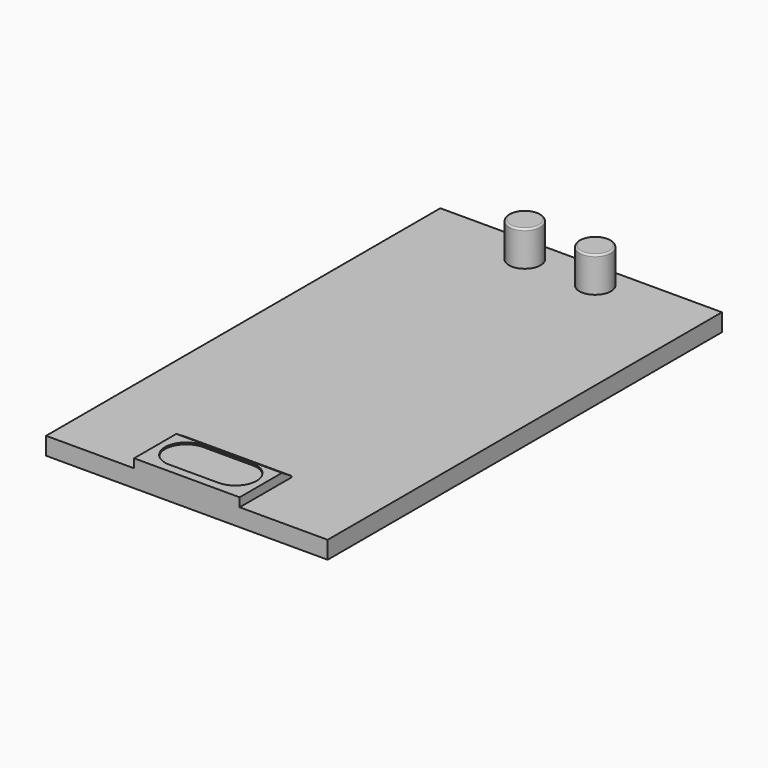
from build123d import *

# Parameters (mm, degrees)
F0_W     = 203.2
F0_H     = 355.6
F1_DEPTH = 12.7
F2_R     = 11.43
F3_DEPTH = 38.1
F4_W     = 76.2
F4_H     = 38.1
F5_DEPTH = 6.35
F7_DEPTH = 1.27
F9_DEPTH = 76.2
F10_R    = 1.27


with BuildPart() as f1:
    # F0 (on Top) → F1 (new body)
    with BuildSketch(Plane.XY):
        with Locations((101.6, 177.8)):
            Rectangle(F0_W, F0_H)
    extrude(amount=F1_DEPTH)

    # F2 (on face) → F3 (join)
    with BuildSketch(Plane.XY):
        with Locations((76.2, 336.55)):
            Circle(F2_R)
        with Locations((127, 336.55)):
            Circle(F2_R)
    extrude(amount=F3_DEPTH)

    # F4 (on face) → F5 (join)
    with BuildSketch(Plane.XY.offset(12.7)):
        with Locations((101.6, 19.05)):
            Rectangle(F4_W, F4_H)
    extrude(amount=F5_DEPTH)

    # F6 (on face) → F7 (cut)
    with BuildSketch(Plane.XY.offset(19.05)):
        with BuildLine():
            Line((119.38, 36.83), (83.82, 36.83))
            ThreePointArc((83.82, 36.83), (68.58, 21.59), (83.82, 6.35))
            Line((83.82, 6.35), (119.38, 6.35))
            ThreePointArc((119.38, 6.35), (134.62, 21.59), (119.38, 36.83))
        make_face()
    extrude(amount=-F7_DEPTH, mode=Mode.SUBTRACT)

    # F8 (on face) → F9 (join)
    with BuildSketch(Plane.YZ.offset(139.7)):
        Polygon((46.687422, 13.682861), (38.1, 19.05), (38.1, 12.7), (46.687422, 12.7), align=None)
    extrude(amount=-F9_DEPTH)

    # F10
    f10_edges = [f1.edges().sort_by_distance(p)[0] for p in [
        (64.77, 336.55, 38.1),
        (115.57, 336.55, 38.1),
    ]]
    fillet(f10_edges, radius=F10_R)


solid = f1.part
